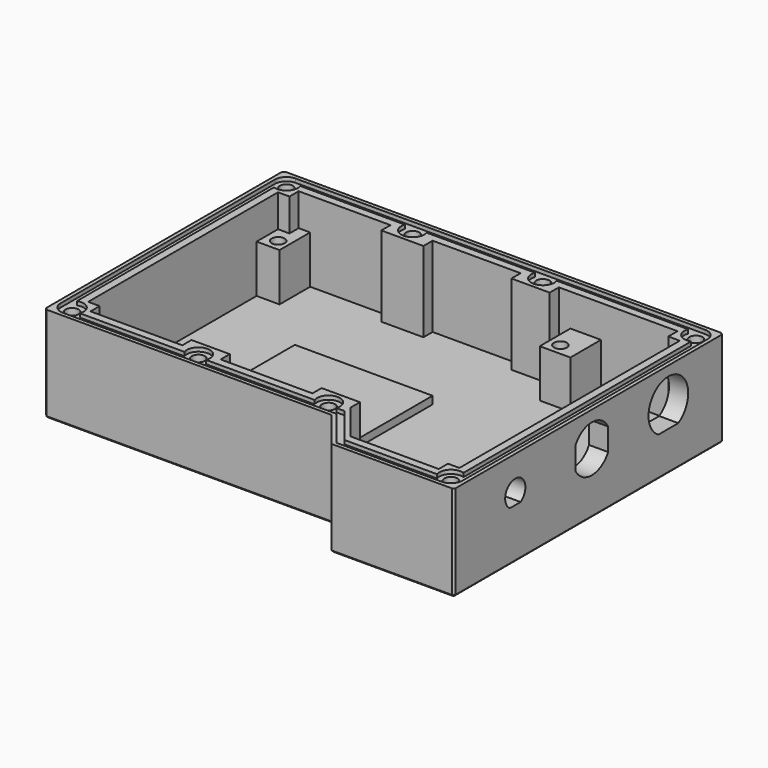
from build123d import *

# Parameters (mm, degrees)
PAD_DEPTH       = 27
POCKET_DEPTH    = 21
POCKET005_DEPTH = 5
SKETCH015_W     = 6
SKETCH015_H     = 11
SKETCH015_W_2   = 8
PAD006_DEPTH    = 15.5
SKETCH012_W     = 3
SKETCH012_H     = 3
SKETCH012_W_2   = 10
SKETCH012_W_3   = 11
PAD007_DEPTH    = 24
SKETCH016_R     = 1.7
HOLE_DEPTH      = 11.5
HOLE_TIPS_R     = 1.7
SKETCH017_R     = 1.7
HOLE001_DEPTH   = 20
HOLE001_TIPS_R  = 1.7
SKETCH018_W     = 36
SKETCH018_H     = 36
PAD008_DEPTH    = 2
SKETCH025_R     = 1.7
POCKET010_DEPTH = 1
SKETCH028_W     = 88
SKETCH028_H     = 2
POCKET011_DEPTH = 115.001
CHAMFER_SIZE    = 0.5


with BuildPart() as part:
    # Sketch → Pad (new body)
    with BuildSketch(Plane.XY):
        Polygon((-5, -7), (70, -7), (78, -17), (110, -17), (110, 71), (-5, 71), align=None)
    extrude(amount=PAD_DEPTH)

    # Sketch001 (on Face8 of Pad) → Pocket (cut)
    with BuildSketch(Plane.XY.offset(27)):
        Polygon((0, 66), (0, -2), (71, -2), (79, -12), (105, -12), (105, 66), align=None)
    extrude(amount=-POCKET_DEPTH, mode=Mode.SUBTRACT)

    # Sketch014 → Pocket005 (cut)
    with BuildSketch(Plane.YZ.offset(110)):
        with BuildLine():
            ThreePointArc((56.25908, 12.405), (53, 24.475), (49.74092, 12.405))
            Line((49.74092, 12.405), (56.25908, 12.405))
        make_face()
        with BuildLine():
            ThreePointArc((4.746425, 15.2), (3, 21.3), (1.253575, 15.2))
            Line((4.746425, 15.2), (1.253575, 15.2))
        make_face()
        with BuildLine():
            ThreePointArc((22.65, 15.069556), (28, 11.9), (33.35, 15.069556))
            Line((33.35, 20.930444), (33.35, 15.069556))
            ThreePointArc((33.35, 20.930444), (28, 24.1), (22.65, 20.930444))
            Line((22.65, 20.930444), (22.65, 15.069556))
        make_face()
    extrude(amount=-POCKET005_DEPTH, mode=Mode.SUBTRACT)

    # Sketch015 → Pad006 (join)
    with BuildSketch(Plane.XY.offset(3)):
        with Locations((3, 61.5)):
            Rectangle(SKETCH015_W, SKETCH015_H)
        with Locations((78, 61.5)):
            Rectangle(SKETCH015_W_2, SKETCH015_H)
    extrude(amount=PAD006_DEPTH)

    # Sketch012 → Pad007 (join)
    with BuildSketch(Plane.XY.offset(3)):
        with Locations((1.5, 64.5)):
            Rectangle(SKETCH012_W, SKETCH012_H)
        with Locations((103.5, 64.5)):
            Rectangle(SKETCH012_W, SKETCH012_H)
        with Locations((103.5, -10.5)):
            Rectangle(SKETCH012_W, SKETCH012_H)
        with Locations((1.5, -0.5)):
            Rectangle(SKETCH012_W, SKETCH012_H)
        with Locations((66, 64.5)):
            Rectangle(SKETCH012_W_2, SKETCH012_H)
        with Locations((32, -0.5)):
            Rectangle(SKETCH012_W_2, SKETCH012_H)
        with Locations((66, -0.5)):
            Rectangle(SKETCH012_W_2, SKETCH012_H)
        with Locations((32.5, 64.5)):
            Rectangle(SKETCH012_W_3, SKETCH012_H)
    extrude(amount=PAD007_DEPTH)

    # Sketch016 → Hole (cut)
    with BuildSketch(Plane.XY.offset(18.5)):
        with Locations((3.25, 59)):
            Circle(SKETCH016_R)
        with Locations((77, 59)):
            Circle(SKETCH016_R)
    extrude(amount=-HOLE_DEPTH, mode=Mode.SUBTRACT)

    # Hole tips → Hole tip 1 section 0
    with BuildSketch(Plane.XY.offset(7), mode=Mode.PRIVATE) as hole_tip_1_s0:
        with Locations((3.25, 59)):
            Circle(HOLE_TIPS_R)
    loft([hole_tip_1_s0.sketch, Vertex(3.25, 59, 5.978537)], mode=Mode.SUBTRACT)

    # Hole tips → Hole tip 2 section 0
    with BuildSketch(Plane.XY.offset(7), mode=Mode.PRIVATE) as hole_tip_2_s0:
        with Locations((77, 59)):
            Circle(HOLE_TIPS_R)
    loft([hole_tip_2_s0.sketch, Vertex(77, 59, 5.978537)], mode=Mode.SUBTRACT)

    # Sketch017 (on Face2 of Hole) → Hole001 (cut)
    with BuildSketch(Plane.XY.offset(27)):
        with Locations((-1, 67)):
            Circle(SKETCH017_R)
        with Locations((106, 67)):
            Circle(SKETCH017_R)
        with Locations((106, -13)):
            Circle(SKETCH017_R)
        with Locations((-1, -3)):
            Circle(SKETCH017_R)
        with Locations((66, 67)):
            Circle(SKETCH017_R)
        with Locations((66, -3)):
            Circle(SKETCH017_R)
        with Locations((32, -3)):
            Circle(SKETCH017_R)
        with Locations((32, 67)):
            Circle(SKETCH017_R)
    extrude(amount=-HOLE001_DEPTH, mode=Mode.SUBTRACT)

    # Hole001 tips → Hole001 tip 1 section 0
    with BuildSketch(Plane.XY.offset(7), mode=Mode.PRIVATE) as hole001_tip_1_s0:
        with Locations((-1, 67)):
            Circle(HOLE001_TIPS_R)
    loft([hole001_tip_1_s0.sketch, Vertex(-1, 67, 5.978537)], mode=Mode.SUBTRACT)

    # Hole001 tips → Hole001 tip 2 section 0
    with BuildSketch(Plane.XY.offset(7), mode=Mode.PRIVATE) as hole001_tip_2_s0:
        with Locations((106, 67)):
            Circle(HOLE001_TIPS_R)
    loft([hole001_tip_2_s0.sketch, Vertex(106, 67, 5.978537)], mode=Mode.SUBTRACT)

    # Hole001 tips → Hole001 tip 3 section 0
    with BuildSketch(Plane.XY.offset(7), mode=Mode.PRIVATE) as hole001_tip_3_s0:
        with Locations((106, -13)):
            Circle(HOLE001_TIPS_R)
    loft([hole001_tip_3_s0.sketch, Vertex(106, -13, 5.978537)], mode=Mode.SUBTRACT)

    # Hole001 tips → Hole001 tip 4 section 0
    with BuildSketch(Plane.XY.offset(7), mode=Mode.PRIVATE) as hole001_tip_4_s0:
        with Locations((-1, -3)):
            Circle(HOLE001_TIPS_R)
    loft([hole001_tip_4_s0.sketch, Vertex(-1, -3, 5.978537)], mode=Mode.SUBTRACT)

    # Hole001 tips → Hole001 tip 5 section 0
    with BuildSketch(Plane.XY.offset(7), mode=Mode.PRIVATE) as hole001_tip_5_s0:
        with Locations((66, 67)):
            Circle(HOLE001_TIPS_R)
    loft([hole001_tip_5_s0.sketch, Vertex(66, 67, 5.978537)], mode=Mode.SUBTRACT)

    # Hole001 tips → Hole001 tip 6 section 0
    with BuildSketch(Plane.XY.offset(7), mode=Mode.PRIVATE) as hole001_tip_6_s0:
        with Locations((66, -3)):
            Circle(HOLE001_TIPS_R)
    loft([hole001_tip_6_s0.sketch, Vertex(66, -3, 5.978537)], mode=Mode.SUBTRACT)

    # Hole001 tips → Hole001 tip 7 section 0
    with BuildSketch(Plane.XY.offset(7), mode=Mode.PRIVATE) as hole001_tip_7_s0:
        with Locations((32, -3)):
            Circle(HOLE001_TIPS_R)
    loft([hole001_tip_7_s0.sketch, Vertex(32, -3, 5.978537)], mode=Mode.SUBTRACT)

    # Hole001 tips → Hole001 tip 8 section 0
    with BuildSketch(Plane.XY.offset(7), mode=Mode.PRIVATE) as hole001_tip_8_s0:
        with Locations((32, 67)):
            Circle(HOLE001_TIPS_R)
    loft([hole001_tip_8_s0.sketch, Vertex(32, 67, 5.978537)], mode=Mode.SUBTRACT)

    # Sketch018 → Pad008 (join)
    with BuildSketch(Plane.XY.offset(6)):
        with Locations((40, 23)):
            Rectangle(SKETCH018_W, SKETCH018_H)
    extrude(amount=PAD008_DEPTH)

    # Sketch025 → Pocket010 (cut)
    with BuildSketch(Plane.XY.offset(27)):
        with BuildLine():
            ThreePointArc((109, 67), (108.12132, 69.12132), (106, 70))
            Line((-1, 70), (106, 70))
            ThreePointArc((-1, 70), (-3.12132, 69.12132), (-4, 67))
            Line((-4, -3), (-4, 67))
            ThreePointArc((-4, -3), (-3.12132, -5.12132), (-1, -6))
            Line((-1, -6), (70.5, -6))
            Line((70.5, -6), (78.5, -16))
            Line((78.5, -16), (106, -16))
            ThreePointArc((106, -16), (108.12132, -15.12132), (109, -13))
            Line((109, 67), (109, -13))
        make_face()
        with Locations((32, 67)):
            Circle(SKETCH025_R, mode=Mode.SUBTRACT)
        with Locations((32, -3)):
            Circle(SKETCH025_R, mode=Mode.SUBTRACT)
        with BuildLine():
            Line((107, -10.171573), (107, 64.171573))
            ThreePointArc((103.171573, 68), (103.87868, 64.87868), (107, 64.171573))
            Line((68.828427, 68), (103.171573, 68))
            ThreePointArc((63.171573, 68), (66, 64), (68.828427, 68))
            Line((34.828427, 68), (63.171573, 68))
            ThreePointArc((29.171573, 68), (32, 64), (34.828427, 68))
            Line((1.828427, 68), (29.171573, 68))
            ThreePointArc((-2, 64.171573), (1.12132, 64.87868), (1.828427, 68))
            Line((-2, 64.171573), (-2, -0.171573))
            ThreePointArc((1.828427, -4), (1.12132, -0.87868), (-2, -0.171573))
            Line((29.171573, -4), (1.828427, -4))
            ThreePointArc((34.828427, -4), (32, 0), (29.171573, -4))
            Line((63.171573, -4), (34.828427, -4))
            ThreePointArc((68.828427, -4), (66, 0), (63.171573, -4))
            Line((71, -4), (68.828427, -4))
            Line((79, -14), (71, -4))
            Line((103.171573, -14), (79, -14))
            ThreePointArc((107, -10.171573), (103.87868, -10.87868), (103.171573, -14))
        make_face(mode=Mode.SUBTRACT)
    extrude(amount=-POCKET010_DEPTH, mode=Mode.SUBTRACT)

    # Sketch028 (on Face92 of Pocket010) → Pocket011 (cut, through all)
    with BuildSketch(Plane.YZ.offset(110)):
        with Locations((27, 1)):
            Rectangle(SKETCH028_W, SKETCH028_H)
    extrude(amount=-POCKET011_DEPTH, mode=Mode.SUBTRACT)

    # Chamfer
    chamfer_edges = [part.edges().sort_by_distance(p)[0] for p in [
        (110, -17, 14.5),
        (110, 27, 2),
        (52.5, 71, 2),
        (110, 71, 14.5),
        (32.5, -7, 2),
        (94, -17, 2),
        (74, -12, 2),
        (-5, -7, 14.5),
        (-5, 32, 2),
        (-5, 71, 14.5),
    ]]
    chamfer(chamfer_edges, length=CHAMFER_SIZE)


with BuildPart() as part_1:
    # Body placement: moved
    add(part.part.moved(Location((0, 0, -2.5))))


solid = part_1.part
